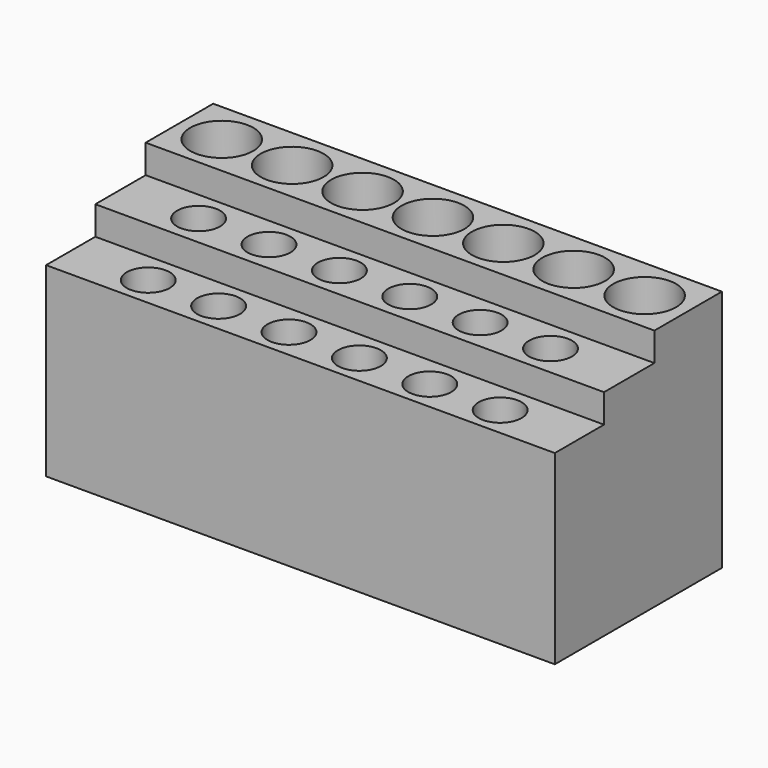
from build123d import *

# Parameters (mm, degrees)
F0_W     = 177.8
F0_H     = 29.5
F0_R     = 11
F0_H_2   = 22
F0_R_2   = 7.5
F0_H_3   = 21.5
F1_DEPTH = 5
F2_DEPTH = 60
F3_DEPTH = 70
F4_DEPTH = 70
F7_DEPTH = 80
F8_DEPTH = 90


with BuildPart() as f1:
    # F0 (on Top) → F1 (new body)
    with BuildSketch(Plane.XY):
        with Locations((0, 21.75)):
            Rectangle(F0_W, F0_H)
        with Locations((-73.9, 21.5)):
            Circle(F0_R, mode=Mode.SUBTRACT)
        with Locations((-49.3, 21.5)):
            Circle(F0_R, mode=Mode.SUBTRACT)
        with Locations((-24.7, 21.5)):
            Circle(F0_R, mode=Mode.SUBTRACT)
        with Locations((-0.1, 21.5)):
            Circle(F0_R, mode=Mode.SUBTRACT)
        with Locations((24.5, 21.5)):
            Circle(F0_R, mode=Mode.SUBTRACT)
        with Locations((49.1, 21.5)):
            Circle(F0_R, mode=Mode.SUBTRACT)
        with Locations((73.9, 21.5)):
            Circle(F0_R, mode=Mode.SUBTRACT)
        with Locations((0, -4)):
            Rectangle(F0_W, F0_H_2)
        with Locations((-61.6, -4)):
            Circle(F0_R_2, mode=Mode.SUBTRACT)
        with Locations((-37, -4)):
            Circle(F0_R_2, mode=Mode.SUBTRACT)
        with Locations((-12.4, -4)):
            Circle(F0_R_2, mode=Mode.SUBTRACT)
        with Locations((12.2, -4)):
            Circle(F0_R_2, mode=Mode.SUBTRACT)
        with Locations((36.8, -4)):
            Circle(F0_R_2, mode=Mode.SUBTRACT)
        with Locations((61.4, -4)):
            Circle(F0_R_2, mode=Mode.SUBTRACT)
        with Locations((0, -25.75)):
            Rectangle(F0_W, F0_H_3)
        with Locations((-61.6, -26)):
            Circle(F0_R_2, mode=Mode.SUBTRACT)
        with Locations((-37, -26)):
            Circle(F0_R_2, mode=Mode.SUBTRACT)
        with Locations((-12.4, -26)):
            Circle(F0_R_2, mode=Mode.SUBTRACT)
        with Locations((12.2, -26)):
            Circle(F0_R_2, mode=Mode.SUBTRACT)
        with Locations((36.8, -26)):
            Circle(F0_R_2, mode=Mode.SUBTRACT)
        with Locations((61.4, -26)):
            Circle(F0_R_2, mode=Mode.SUBTRACT)
        with Locations((-24.7, 21.5)):
            Circle(F0_R)
        with Locations((-49.3, 21.5)):
            Circle(F0_R)
        with Locations((-73.9, 21.5)):
            Circle(F0_R)
        with Locations((24.5, 21.5)):
            Circle(F0_R)
        with Locations((73.9, 21.5)):
            Circle(F0_R)
        with Locations((49.1, 21.5)):
            Circle(F0_R)
        with Locations((-0.1, 21.5)):
            Circle(F0_R)
        with Locations((36.8, -4)):
            Circle(F0_R_2)
        with Locations((12.2, -26)):
            Circle(F0_R_2)
        with Locations((-12.4, -4)):
            Circle(F0_R_2)
        with Locations((-12.4, -26)):
            Circle(F0_R_2)
        with Locations((12.2, -4)):
            Circle(F0_R_2)
        with Locations((61.4, -4)):
            Circle(F0_R_2)
        with Locations((-37, -4)):
            Circle(F0_R_2)
        with Locations((-61.6, -4)):
            Circle(F0_R_2)
        with Locations((-37, -26)):
            Circle(F0_R_2)
        with Locations((-61.6, -26)):
            Circle(F0_R_2)
        with Locations((61.4, -26)):
            Circle(F0_R_2)
        with Locations((36.8, -26)):
            Circle(F0_R_2)
    extrude(amount=-F1_DEPTH)

    # F0 (on Top) → F2 (join)
    with BuildSketch(Plane.XY):
        with Locations((0, -25.75)):
            Rectangle(F0_W, F0_H_3)
        with Locations((-61.6, -26)):
            Circle(F0_R_2, mode=Mode.SUBTRACT)
        with Locations((-37, -26)):
            Circle(F0_R_2, mode=Mode.SUBTRACT)
        with Locations((-12.4, -26)):
            Circle(F0_R_2, mode=Mode.SUBTRACT)
        with Locations((12.2, -26)):
            Circle(F0_R_2, mode=Mode.SUBTRACT)
        with Locations((36.8, -26)):
            Circle(F0_R_2, mode=Mode.SUBTRACT)
        with Locations((61.4, -26)):
            Circle(F0_R_2, mode=Mode.SUBTRACT)
    extrude(amount=F2_DEPTH)

    # F0 (on Top) → F3 (join)
    with BuildSketch(Plane.XY):
        with Locations((0, -4)):
            Rectangle(F0_W, F0_H_2)
        with Locations((-61.6, -4)):
            Circle(F0_R_2, mode=Mode.SUBTRACT)
        with Locations((-37, -4)):
            Circle(F0_R_2, mode=Mode.SUBTRACT)
        with Locations((-12.4, -4)):
            Circle(F0_R_2, mode=Mode.SUBTRACT)
        with Locations((12.2, -4)):
            Circle(F0_R_2, mode=Mode.SUBTRACT)
        with Locations((36.8, -4)):
            Circle(F0_R_2, mode=Mode.SUBTRACT)
        with Locations((61.4, -4)):
            Circle(F0_R_2, mode=Mode.SUBTRACT)
        with Locations((-61.6, -4)):
            Circle(F0_R_2)
        with Locations((-37, -4)):
            Circle(F0_R_2)
        with Locations((-12.4, -4)):
            Circle(F0_R_2)
        with Locations((12.2, -4)):
            Circle(F0_R_2)
        with Locations((36.8, -4)):
            Circle(F0_R_2)
        with Locations((61.4, -4)):
            Circle(F0_R_2)
    extrude(amount=F3_DEPTH)


with BuildPart() as f4:
    # F0 (on Top) → F4 (new body)
    with BuildSketch(Plane.XY):
        with Locations((-61.6, -4)):
            Circle(F0_R_2)
    extrude(amount=F4_DEPTH)


with BuildPart() as f4b:
    # F0 (on Top) → F4, piece 2 (new body)
    with BuildSketch(Plane.XY):
        with Locations((-37, -4)):
            Circle(F0_R_2)
    extrude(amount=F4_DEPTH)


with BuildPart() as f4c:
    # F0 (on Top) → F4, piece 3 (new body)
    with BuildSketch(Plane.XY):
        with Locations((-12.4, -4)):
            Circle(F0_R_2)
    extrude(amount=F4_DEPTH)


with BuildPart() as f4d:
    # F0 (on Top) → F4, piece 4 (new body)
    with BuildSketch(Plane.XY):
        with Locations((12.2, -4)):
            Circle(F0_R_2)
    extrude(amount=F4_DEPTH)


with BuildPart() as f4e:
    # F0 (on Top) → F4, piece 5 (new body)
    with BuildSketch(Plane.XY):
        with Locations((36.8, -4)):
            Circle(F0_R_2)
    extrude(amount=F4_DEPTH)


with BuildPart() as f4f:
    # F0 (on Top) → F4, piece 6 (new body)
    with BuildSketch(Plane.XY):
        with Locations((61.4, -4)):
            Circle(F0_R_2)
    extrude(amount=F4_DEPTH)


with BuildPart() as f4_1:
    # F5: moved
    add(f4.part.moved(Location((0, 0, 10))))


with BuildPart() as f4b_1:
    # F5: moved
    add(f4b.part.moved(Location((0, 0, 10))))


with BuildPart() as f4c_1:
    # F5: moved
    add(f4c.part.moved(Location((0, 0, 10))))


with BuildPart() as f4d_1:
    # F5: moved
    add(f4d.part.moved(Location((0, 0, 10))))


with BuildPart() as f4e_1:
    # F5: moved
    add(f4e.part.moved(Location((0, 0, 10))))


with BuildPart() as f4f_1:
    # F5: moved
    add(f4f.part.moved(Location((0, 0, 10))))


with BuildPart() as f1_1:
    add(f1.part)

    # F6: cut F4, F4b, F4c, F4d, F4e, F4f
    add(f4_1.part, mode=Mode.SUBTRACT)
    add(f4b_1.part, mode=Mode.SUBTRACT)
    add(f4c_1.part, mode=Mode.SUBTRACT)
    add(f4d_1.part, mode=Mode.SUBTRACT)
    add(f4e_1.part, mode=Mode.SUBTRACT)
    add(f4f_1.part, mode=Mode.SUBTRACT)

    # F0 (on Top) → F7 (join)
    with BuildSketch(Plane.XY):
        with Locations((0, 21.75)):
            Rectangle(F0_W, F0_H)
        with Locations((-73.9, 21.5)):
            Circle(F0_R, mode=Mode.SUBTRACT)
        with Locations((-49.3, 21.5)):
            Circle(F0_R, mode=Mode.SUBTRACT)
        with Locations((-24.7, 21.5)):
            Circle(F0_R, mode=Mode.SUBTRACT)
        with Locations((-0.1, 21.5)):
            Circle(F0_R, mode=Mode.SUBTRACT)
        with Locations((24.5, 21.5)):
            Circle(F0_R, mode=Mode.SUBTRACT)
        with Locations((49.1, 21.5)):
            Circle(F0_R, mode=Mode.SUBTRACT)
        with Locations((73.9, 21.5)):
            Circle(F0_R, mode=Mode.SUBTRACT)
        with Locations((-73.9, 21.5)):
            Circle(F0_R)
        with Locations((-49.3, 21.5)):
            Circle(F0_R)
        with Locations((-24.7, 21.5)):
            Circle(F0_R)
        with Locations((-0.1, 21.5)):
            Circle(F0_R)
        with Locations((24.5, 21.5)):
            Circle(F0_R)
        with Locations((49.1, 21.5)):
            Circle(F0_R)
        with Locations((73.9, 21.5)):
            Circle(F0_R)
    extrude(amount=F7_DEPTH)


with BuildPart() as f8:
    # F0 (on Top) → F8 (new body)
    with BuildSketch(Plane.XY):
        with Locations((-73.9, 21.5)):
            Circle(F0_R)
    extrude(amount=F8_DEPTH)


with BuildPart() as f8b:
    # F0 (on Top) → F8, piece 2 (new body)
    with BuildSketch(Plane.XY):
        with Locations((-49.3, 21.5)):
            Circle(F0_R)
    extrude(amount=F8_DEPTH)


with BuildPart() as f8c:
    # F0 (on Top) → F8, piece 3 (new body)
    with BuildSketch(Plane.XY):
        with Locations((-24.7, 21.5)):
            Circle(F0_R)
    extrude(amount=F8_DEPTH)


with BuildPart() as f8d:
    # F0 (on Top) → F8, piece 4 (new body)
    with BuildSketch(Plane.XY):
        with Locations((-0.1, 21.5)):
            Circle(F0_R)
    extrude(amount=F8_DEPTH)


with BuildPart() as f8e:
    # F0 (on Top) → F8, piece 5 (new body)
    with BuildSketch(Plane.XY):
        with Locations((24.5, 21.5)):
            Circle(F0_R)
    extrude(amount=F8_DEPTH)


with BuildPart() as f8f:
    # F0 (on Top) → F8, piece 6 (new body)
    with BuildSketch(Plane.XY):
        with Locations((49.1, 21.5)):
            Circle(F0_R)
    extrude(amount=F8_DEPTH)


with BuildPart() as f8g:
    # F0 (on Top) → F8, piece 7 (new body)
    with BuildSketch(Plane.XY):
        with Locations((73.9, 21.5)):
            Circle(F0_R)
    extrude(amount=F8_DEPTH)


with BuildPart() as f8_1:
    # F9: moved
    add(f8.part.moved(Location((0, 0, 20))))


with BuildPart() as f8g_1:
    # F9: moved
    add(f8g.part.moved(Location((0, 0, 20))))


with BuildPart() as f8b_1:
    # F9: moved
    add(f8b.part.moved(Location((0, 0, 20))))


with BuildPart() as f8c_1:
    # F9: moved
    add(f8c.part.moved(Location((0, 0, 20))))


with BuildPart() as f8d_1:
    # F9: moved
    add(f8d.part.moved(Location((0, 0, 20))))


with BuildPart() as f8e_1:
    # F9: moved
    add(f8e.part.moved(Location((0, 0, 20))))


with BuildPart() as f8f_1:
    # F9: moved
    add(f8f.part.moved(Location((0, 0, 20))))


with BuildPart() as f1_2:
    add(f1_1.part)

    # F10: cut F8, F8g, F8b, F8c, F8d, F8e, F8f
    add(f8_1.part, mode=Mode.SUBTRACT)
    add(f8g_1.part, mode=Mode.SUBTRACT)
    add(f8b_1.part, mode=Mode.SUBTRACT)
    add(f8c_1.part, mode=Mode.SUBTRACT)
    add(f8d_1.part, mode=Mode.SUBTRACT)
    add(f8e_1.part, mode=Mode.SUBTRACT)
    add(f8f_1.part, mode=Mode.SUBTRACT)


solid = f1_2.part
